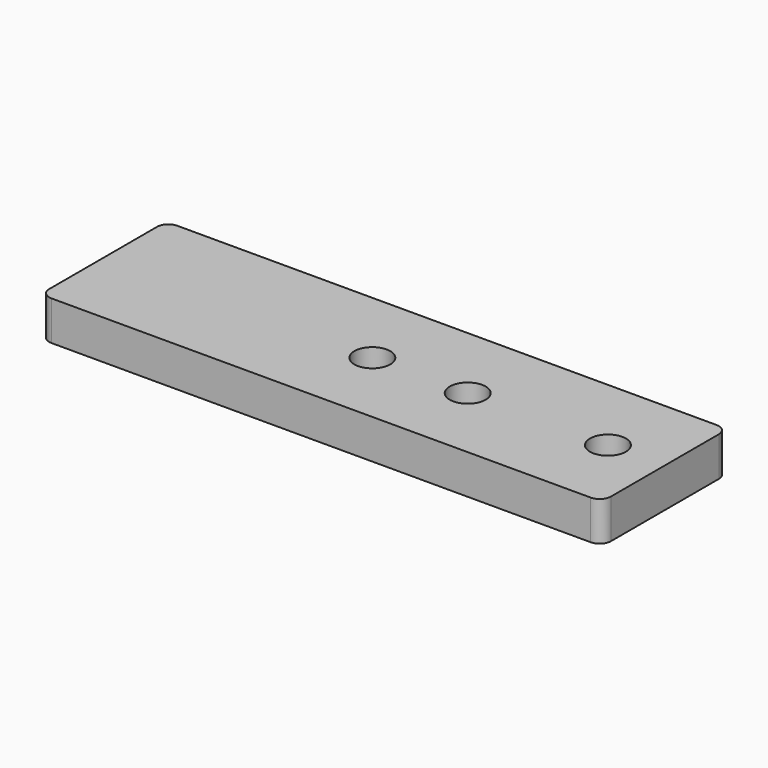
from build123d import *

# Parameters (mm, degrees)
F0_R     = 1.6
F1_DEPTH = 3.5


with BuildPart() as f1:
    # F0 (on Top) → F1 (new body)
    with BuildSketch(Plane.XY):
        with BuildLine():
            Line((23.763595, 7.093974), (-24.236405, 7.093974))
            ThreePointArc((-24.236405, 7.093974), (-24.943512, 6.80108), (-25.236405, 6.093974))
            Line((-25.236405, 6.093974), (-25.236405, -5.906026))
            ThreePointArc((-25.236405, -5.906026), (-24.943512, -6.613133), (-24.236405, -6.906026))
            Line((-24.236405, -6.906026), (23.763595, -6.906026))
            ThreePointArc((23.763595, -6.906026), (24.470702, -6.613133), (24.763595, -5.906026))
            Line((24.763595, -5.906026), (24.763595, 6.093974))
            ThreePointArc((24.763595, 6.093974), (24.470702, 6.80108), (23.763595, 7.093974))
        make_face()
        with Locations((-1.236405, 0.048866)):
            Circle(F0_R, mode=Mode.SUBTRACT)
        with Locations((7.263595, 0.032891)):
            Circle(F0_R, mode=Mode.SUBTRACT)
        with Locations((19.763595, 0.009397)):
            Circle(F0_R, mode=Mode.SUBTRACT)
    extrude(amount=F1_DEPTH)


solid = f1.part
